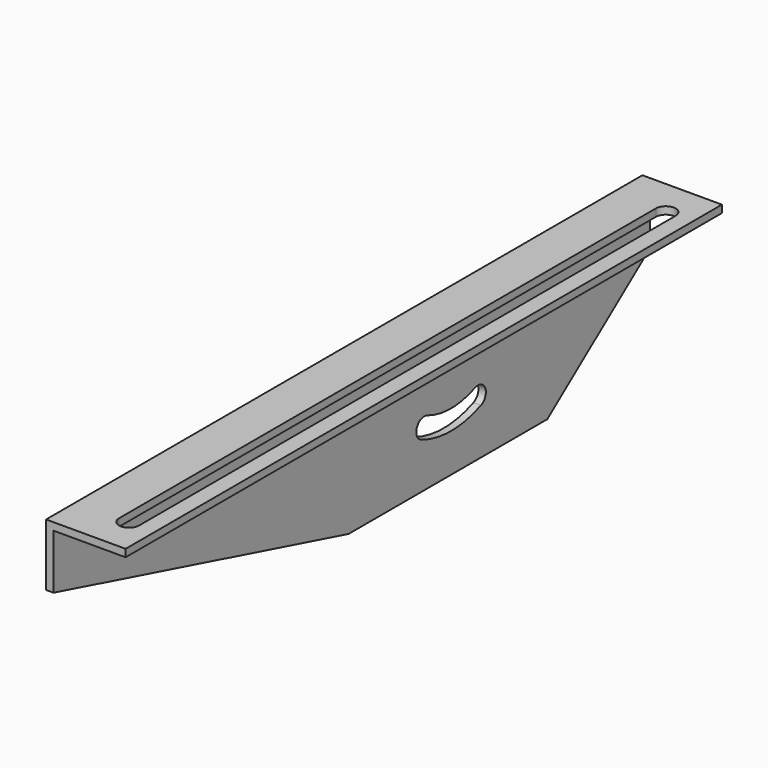
from build123d import *

# Parameters (mm, degrees)
F1_DEPTH = 3
F2_W     = 300
F2_H     = 3
F3_DEPTH = 29
F5_DEPTH = 64.501
F6_R     = 4
F7_DEPTH = 32.001


with BuildPart() as f1:
    # F0 (on Right) → F1 (new body)
    with BuildSketch(Plane.YZ):
        Polygon((150, -25), (150, 0), (-150, 0), (-150, -25), (-1.621217, -64.5), (98.378783, -64.5), align=None)
    extrude(amount=F1_DEPTH)

    # F2 (on face) → F3 (join)
    with BuildSketch(Plane.YZ.offset(3)):
        with Locations((0, -1.5)):
            Rectangle(F2_W, F2_H)
    extrude(amount=F3_DEPTH)

    # F4 (on face) → F5 (cut, through all)
    with BuildSketch(Plane.XY):
        with BuildLine():
            ThreePointArc((17.4, -135), (21.4, -139), (25.4, -135))
            Line((25.4, -135), (25.4, 135))
            ThreePointArc((25.4, 135), (21.4, 139), (17.4, 135))
            Line((17.4, 135), (17.4, -135))
        make_face()
    extrude(amount=-F5_DEPTH, mode=Mode.SUBTRACT)

    # F6 (on face) → F7 (cut, through all)
    with BuildSketch(Plane(origin=(0, 0, 0), x_dir=(0, -1, 0), z_dir=(-1, 0, 0))):
        with Locations((-50, -10)):
            Circle(F6_R)
        with BuildLine():
            ThreePointArc((-61.957143, -38.601167), (-67.190473, -40.748783), (-65.042857, -45.982113))
            ThreePointArc((-65.042857, -45.982113), (-50, -49), (-34.957143, -45.982113))
            ThreePointArc((-34.957143, -45.982113), (-32.809527, -40.748783), (-38.042857, -38.601167))
            ThreePointArc((-38.042857, -38.601167), (-50, -41), (-61.957143, -38.601167))
        make_face()
    extrude(amount=-F7_DEPTH, mode=Mode.SUBTRACT)


solid = f1.part
